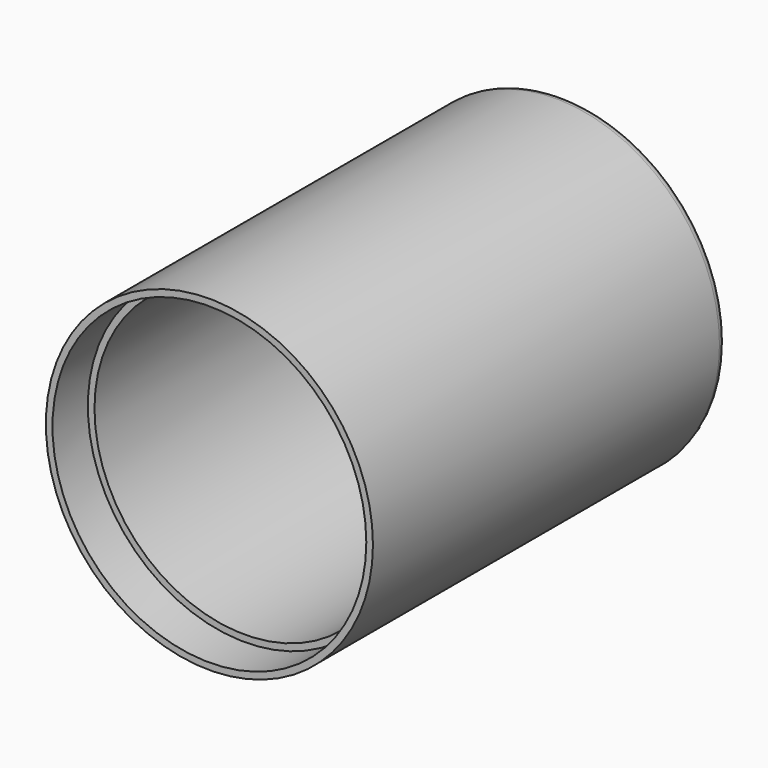
from build123d import *

# Parameters (mm, degrees)
F0_R     = 37
F1_DEPTH = 100
F2_R     = 34
F3_DEPTH = 245
F4_R     = 2
F5_R     = 35.5
F6_DEPTH = 10


with BuildPart() as f1:
    # F0 (on Front) → F1 (new body)
    with BuildSketch(Plane.XZ):
        Circle(F0_R)
    extrude(amount=-F1_DEPTH)

    # F2 (on face) → F3 (cut)
    with BuildSketch(Plane.XZ):
        Circle(F2_R)
    extrude(amount=-F3_DEPTH, mode=Mode.SUBTRACT)

    # F4
    f4_edges = [f1.edges().sort_by_distance(p)[0] for p in [
        (-37, 100, 0),
    ]]
    fillet(f4_edges, radius=F4_R)

    # F5 (on Front) → F6 (cut)
    with BuildSketch(Plane.XZ):
        Circle(F5_R)
    extrude(amount=-F6_DEPTH, mode=Mode.SUBTRACT)


solid = f1.part
